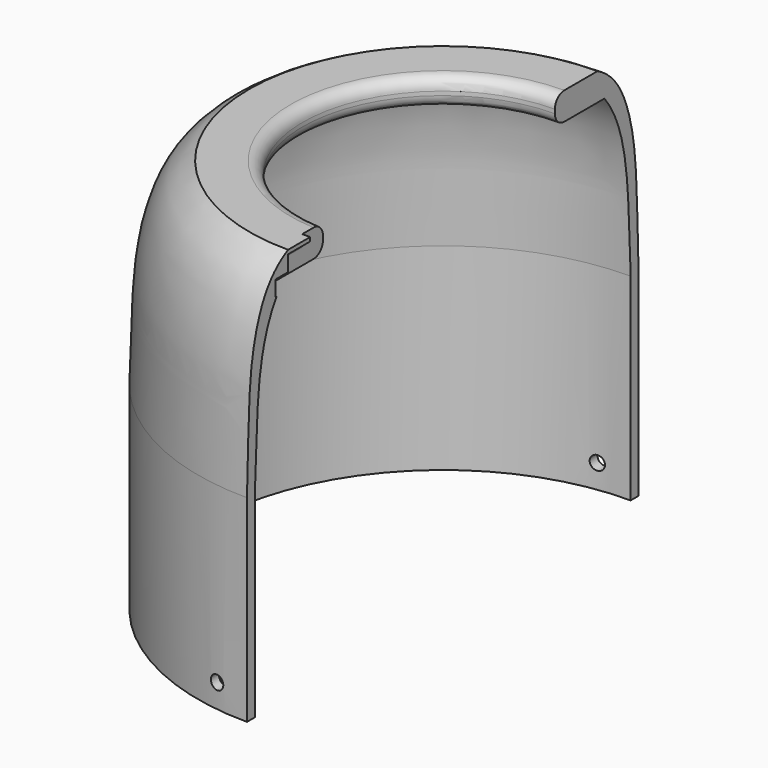
from build123d import *

# Parameters (mm, degrees)
F1_ANGLE_BACK = 90
F1_ANGLE      = 180
F3_DEPTH      = 49
F4_DEPTH      = 42
F5_DEPTH      = 53
F6_R          = 1.75
F7_DEPTH      = 62.5
F8_W          = 10
F8_H          = 20
F8_R          = 1.5
F9_DEPTH      = 62.0010001


with BuildPart() as f1:
    # F0 (on Front) → F1 (revolve)
    with BuildSketch(Plane.XZ, mode=Mode.PRIVATE) as f1_sk:
        with BuildLine():
            ThreePointArc((-35.5, 47), (-36.3786796564, 49.1213203436), (-38.5, 50))
            Line((-38.5, 50), (-49, 50))
            add(Edge.make_bspline(
                [(-49, 50), (-50.0905438599, 49.4592544488), (-53.0493875637, 47.4989733534), (-57.4486951492, 41.931344871), (-61.5763053799, 28.0443008729), (-61.4881986154, 14.5014666819), (-62, 0)],
                knots=[0, 0, 0, 0, 0.1531073754, 0.3436852098, 0.6019385566, 1, 1, 1, 1], degree=3))
            Line((-62, 0), (-62, -50))
            Line((-62, -50), (-59.5, -50))
            Line((-59.5, -50), (-59.5, 0))
            add(Edge.make_bspline(
                [(-51.1955396277, 43), (-59.7999691963, 32.3488041759), (-58.4857873619, 15.5563373119), (-59.5, 0)],
                knots=[0, 0, 0, 0, 43.7945665817, 43.7945665817, 43.7945665817, 43.7945665817], degree=3))
            Line((-51.1955396277, 43), (-38.5, 43))
            ThreePointArc((-38.5, 43), (-36.3786796564, 43.8786796564), (-35.5, 46))
            Line((-35.5, 46), (-35.5, 47))
        make_face()
    revolve(f1_sk.sketch.rotate(Axis((0, 0, -47.5967168808), (0, 0, 1)), -F1_ANGLE_BACK), axis=Axis((0, 0, -47.5967168808), (0, 0, 1)), revolution_arc=F1_ANGLE)

    # F2 (on Front) → F3 (cut)
    with BuildSketch(Plane.XZ):
        with BuildLine():
            ThreePointArc((0, 45), (1.4142135624, 45.5857864376), (2, 47))
            ThreePointArc((2, 47), (1.4142135624, 48.4142135624), (0, 49))
            ThreePointArc((0, 49), (-1.3909130574, 48.4371363424), (-1.998931704, 47.0653608667))
            Line((-1.998931704, 47.0653608667), (-1.998931704, 46.9346391333))
            ThreePointArc((-1.998931704, 46.9346391333), (-1.3909130574, 45.5628636576), (0, 45))
        make_face()
    extrude(amount=F3_DEPTH, mode=Mode.SUBTRACT)

    # F2 (on Front) → F4 (cut)
    with BuildSketch(Plane.XZ):
        with BuildLine():
            ThreePointArc((-1.998931704, 47.0653608667), (-1.3909130574, 48.4371363424), (0, 49))
            Line((0, 49), (0, 50.3604523001))
            Line((0, 50.3604523001), (-1.998931704, 50.3604523001))
            Line((-1.998931704, 50.3604523001), (-1.998931704, 47.0653608667))
        make_face()
    extrude(amount=F4_DEPTH, mode=Mode.SUBTRACT)

    # F2 (on Front) → F5 (cut)
    with BuildSketch(Plane.XZ):
        with BuildLine():
            Line((0, 41.0653608667), (0, 45))
            ThreePointArc((0, 45), (-1.3909130574, 45.5628636576), (-1.998931704, 46.9346391333))
            Line((-1.998931704, 46.9346391333), (-1.998931704, 41.0653608667))
            Line((-1.998931704, 41.0653608667), (0, 41.0653608667))
        make_face()
    extrude(amount=F5_DEPTH, mode=Mode.SUBTRACT)

    # F6 (on Front) → F7 (cut, symmetric)
    with BuildSketch(Plane.XZ):
        with Locations((-8, -44)):
            Circle(F6_R)
    extrude(amount=F7_DEPTH, both=True, mode=Mode.SUBTRACT)

    # F8 (on Right) → F9 (cut, through all)
    with BuildSketch(Plane.YZ):
        with Locations((0, 8)):
            Rectangle(F8_W, F8_H)
        with Locations((-12.5, 19)):
            Circle(F8_R)
        with Locations((12.5, 19)):
            Circle(F8_R)
        with Locations((12.5, -1)):
            Circle(F8_R)
        with Locations((-12.5, -1)):
            Circle(F8_R)
    extrude(amount=-F9_DEPTH, mode=Mode.SUBTRACT)


solid = f1.part
